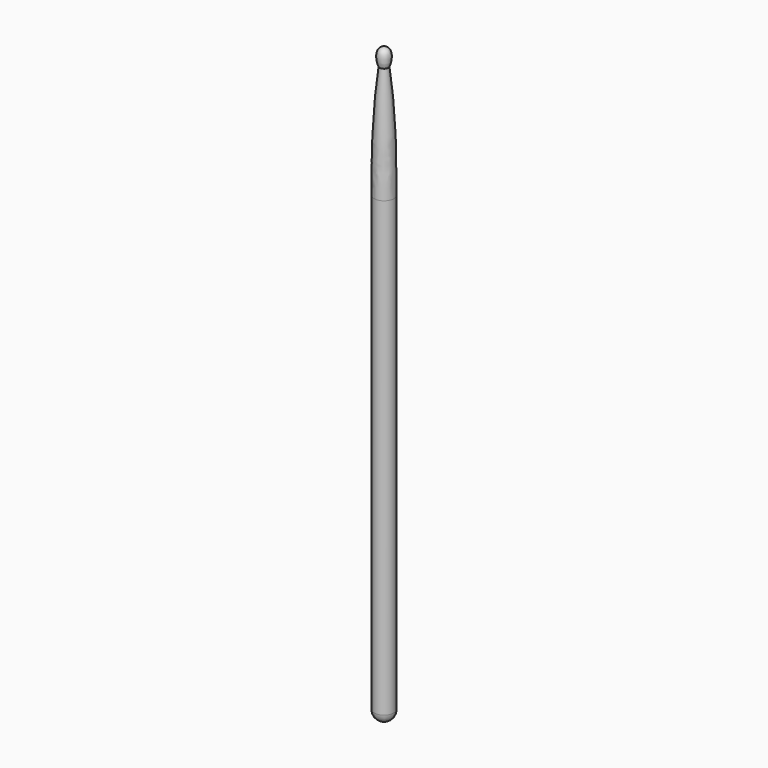
from build123d import *


with BuildPart() as f1:
    # F0 (on Front) → F1 (revolve)
    with BuildSketch(Plane.XZ):
        with BuildLine():
            Line((0, 210), (0, 0))
            ThreePointArc((0, 0), (2.474874, 1.025126), (3.5, 3.5))
            Line((3.5, 3.5), (3.5, 163.846694))
            add(Edge.make_bspline(
                [(1.5, 204), (2.630262, 195.005819), (3.5, 185.42178), (3.5, 163.846694)],
                knots=[0, 0, 0, 0, 40.203084, 40.203084, 40.203084, 40.203084], degree=3))
            add(Edge.make_bspline(
                [(0, 210), (3.125156, 210), (2.19525, 204.964638), (1.5, 204)],
                knots=[0, 0, 0, 0, 6.184658, 6.184658, 6.184658, 6.184658], degree=3))
        make_face()
    revolve(axis=Axis((0, 0, 105), (0, 0, 1)))


solid = f1.part
